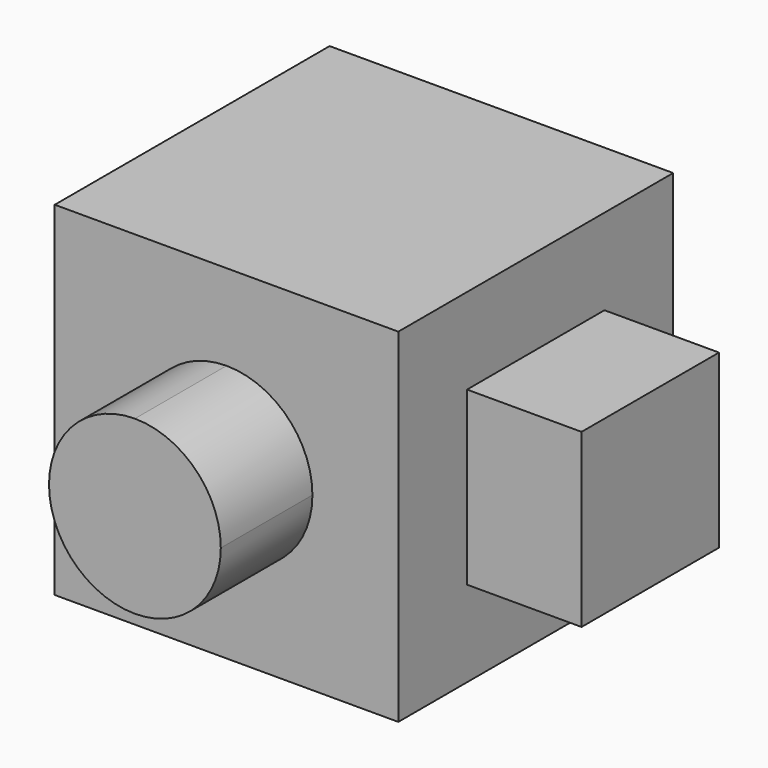
from build123d import *

# Parameters (mm, degrees)
F0_W     = 76.2
F0_H     = 76.2
F1_DEPTH = 76.2
F3_DEPTH = 25.4
F4_W     = 38.1
F4_H     = 38.1
F5_DEPTH = 25.4
F6_W     = 38.1
F6_H     = 38.1
F7_DEPTH = 25.4


with BuildPart() as f1:
    # F0 (on Front) → F1 (new body)
    with BuildSketch(Plane.XZ):
        with Locations((-38.1, 38.1)):
            Rectangle(F0_W, F0_H)
    extrude(amount=F1_DEPTH)

    # F2 (on face) → F3 (join)
    with BuildSketch(Plane.XZ.offset(76.2)):
        with BuildLine():
            Line((-38.1, 38.1), (-38.1, 57.15))
            ThreePointArc((-38.1, 57.15), (-51.570384, 51.570384), (-57.15, 38.1))
            Line((-57.15, 38.1), (-38.1, 38.1))
        make_face()
        with BuildLine():
            ThreePointArc((-57.15, 38.1), (-38.1, 19.05), (-19.05, 38.1))
            ThreePointArc((-19.05, 38.1), (-24.629616, 51.570384), (-38.1, 57.15))
            Line((-38.1, 57.15), (-38.1, 38.1))
            Line((-38.1, 38.1), (-57.15, 38.1))
        make_face()
    extrude(amount=F3_DEPTH)

    # F4 (on face) → F5 (join)
    with BuildSketch(Plane.YZ):
        with Locations((-38.1, 38.1)):
            Rectangle(F4_W, F4_H)
    extrude(amount=F5_DEPTH)

    # F6 (on face) → F7 (cut)
    with BuildSketch(Plane(origin=(0, 0, 0), x_dir=(1, 0, 0), z_dir=(0, 0, -1))):
        with Locations((-38.1, 38.1)):
            Rectangle(F6_W, F6_H)
    extrude(amount=-F7_DEPTH, mode=Mode.SUBTRACT)


solid = f1.part
